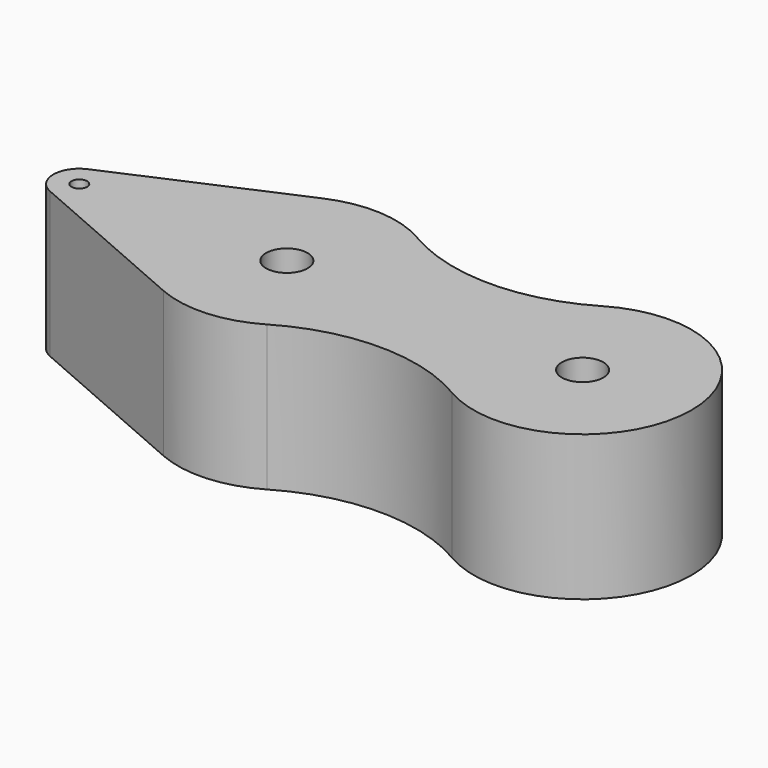
from build123d import *

# Parameters (mm, degrees)
F0_R     = 1.5
F0_R_2   = 4
F1_DEPTH = 28


with BuildPart() as f1:
    # F0 (on Top) → F1 (new body)
    with BuildSketch(Plane.XY):
        with BuildLine():
            Line((-156, -4.582576), (-122.4, -19.246818))
            ThreePointArc((-122.4, -19.246818), (-112.72853, -20.961473), (-103.335219, -18.090396))
            ThreePointArc((-103.335219, -18.090396), (-85.5, -13.224528), (-67.664781, -18.090396))
            ThreePointArc((-67.664781, -18.090396), (-36, 0), (-67.664781, 18.090396))
            ThreePointArc((-67.664781, 18.090396), (-85.5, 13.224528), (-103.335219, 18.090396))
            ThreePointArc((-103.335219, 18.090396), (-112.72853, 20.961473), (-122.4, 19.246818))
            Line((-122.4, 19.246818), (-156, 4.582576))
            ThreePointArc((-156, 4.582576), (-159, 0), (-156, -4.582576))
        make_face()
        with Locations((-154, 0)):
            Circle(F0_R, mode=Mode.SUBTRACT)
        with Locations((-114, 0)):
            Circle(F0_R_2, mode=Mode.SUBTRACT)
        with Locations((-57, 0)):
            Circle(F0_R_2, mode=Mode.SUBTRACT)
    extrude(amount=F1_DEPTH)


solid = f1.part
